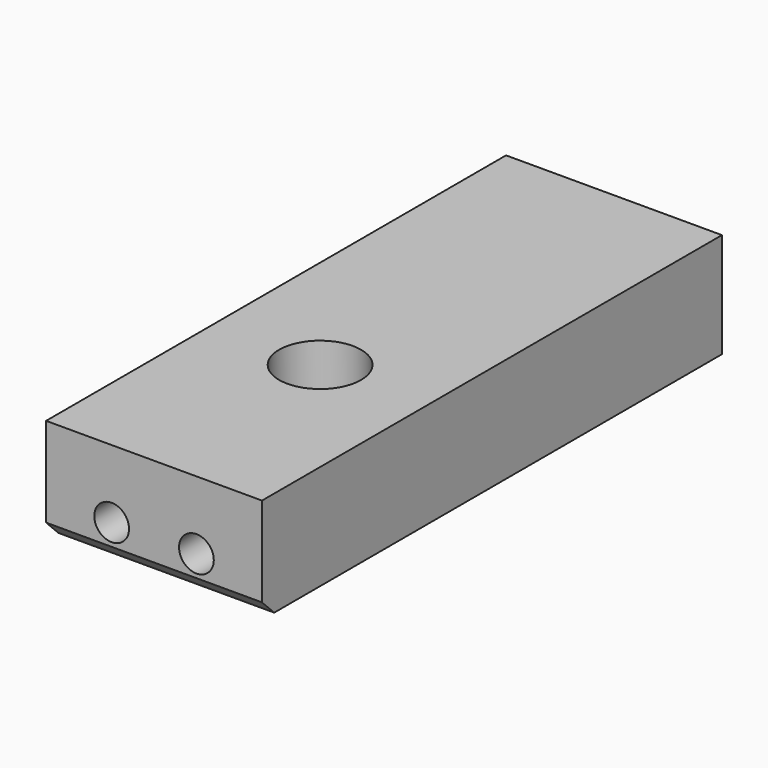
from build123d import *

# Parameters (mm, degrees)
F0_W     = 25.0952
F0_H     = 12.192
F1_DEPTH = 66.8274
F2_R     = 2.0193
F3_DEPTH = 25.4
F4_R     = 2.0193
F5_DEPTH = 19.05
F6_SIZE  = 1.778
F7_R     = 4.7625
F8_DEPTH = 12.193


with BuildPart() as f1:
    # F0 (on Front) → F1 (new body)
    with BuildSketch(Plane.XZ):
        Rectangle(F0_W, F0_H)
    extrude(amount=F1_DEPTH)

    # F2 (on face) → F3 (cut)
    with BuildSketch(Plane(origin=(0, 0, 0), x_dir=(-1, 0, 0), z_dir=(0, 1, 0))):
        with Locations((6.35, 0)):
            Circle(F2_R)
        with Locations((-6.35, 0)):
            Circle(F2_R)
    extrude(amount=-F3_DEPTH, mode=Mode.SUBTRACT)

    # F4 (on face) → F5 (cut)
    with BuildSketch(Plane.XZ.offset(66.8274)):
        with Locations((-4.9276, -1.8288)):
            Circle(F4_R)
        with Locations((4.9276, -1.8288)):
            Circle(F4_R)
    extrude(amount=-F5_DEPTH, mode=Mode.SUBTRACT)

    # F6
    f6_edges = [f1.edges().sort_by_distance(p)[0] for p in [
        (0, -66.8274, -6.096),
    ]]
    chamfer(f6_edges, length=F6_SIZE)

    # F7 (on face) → F8 (cut, through all)
    with BuildSketch(Plane(origin=(0, 0, -6.096), x_dir=(1, 0, 0), z_dir=(0, 0, -1))):
        with Locations((0, 42.6974)):
            Circle(F7_R)
    extrude(amount=-F8_DEPTH, mode=Mode.SUBTRACT)


solid = f1.part
